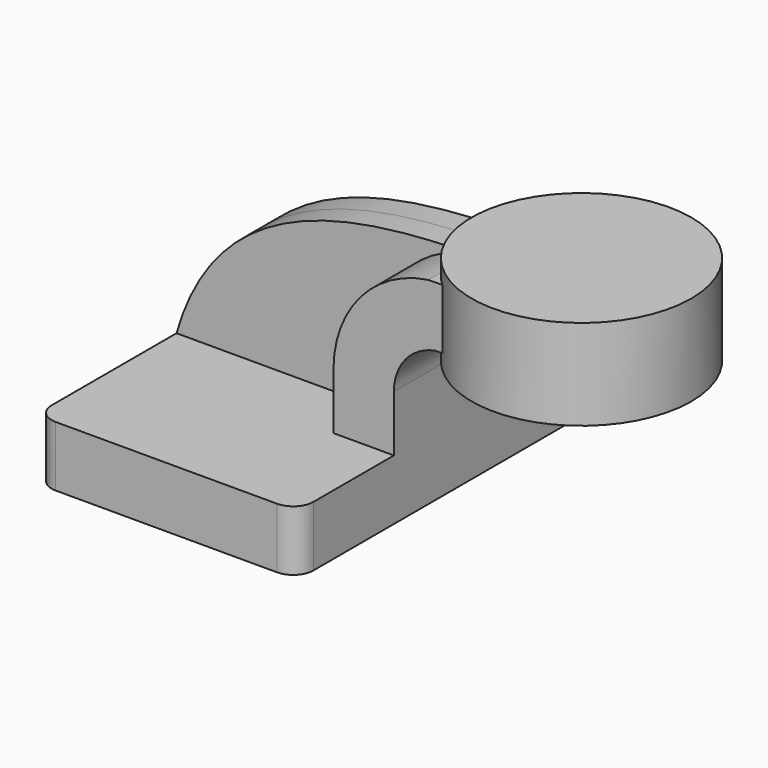
from build123d import *

# Parameters (mm, degrees)
F1_DEPTH = 63.5
F0_W     = 16.14231
F0_H     = 19.05
F2_DEPTH = 25.4
F3_DEPTH = 7.9375
F5_R     = 6.35


with BuildPart() as f1:
    # F0 (on Front) → F1 (new body, symmetric)
    with BuildSketch(Plane.XZ):
        Polygon((22.225, 9.525), (-41.275, 9.525), (-41.275, -9.525), (41.275, -9.525), (41.275, 9.525), align=None)
    extrude(amount=F1_DEPTH, both=True)

    # F0 (on Front) → F2 (join, symmetric)
    with BuildSketch(Plane.XZ):
        with BuildLine():
            Line((22.225, 27.245483), (22.225, 9.525))
            Line((22.225, 9.525), (41.275, 9.525))
            Line((41.275, 9.525), (41.275, 27.245483))
            ThreePointArc((41.275, 27.245483), (44.98148, 37.440715), (54.37015, 42.8752))
            Line((54.37015, 42.8752), (63.990081, 42.8752))
            Line((63.990081, 42.8752), (63.990081, 61.9252))
            add(Edge.make_bspline(
                [(52.118676, 61.806174), (56.173728, 61.882453), (60.147361, 61.905409), (63.990081, 61.9252)],
                knots=[105.880796, 105.880796, 105.880796, 105.880796, 117.586216, 117.586216, 117.586216, 117.586216], degree=3))
            ThreePointArc((52.118676, 61.806174), (30.735282, 50.093203), (22.225, 27.245483))
        make_face()
        with Locations((72.061236, 52.4002)):
            Rectangle(F0_W, F0_H)
    extrude(amount=F2_DEPTH, both=True)

    # F0 (on Front) → F3 (join, symmetric)
    with BuildSketch(Plane.XZ):
        with BuildLine():
            add(Edge.make_bspline(
                [(-41.275, 9.525), (-27.902543, 56.063321), (15.438907, 61.1162), (52.118676, 61.806174)],
                knots=[0, 0, 0, 0, 105.880796, 105.880796, 105.880796, 105.880796], degree=3))
            Line((-41.275, 9.525), (22.225, 9.525))
            Line((22.225, 9.525), (22.225, 27.245483))
            ThreePointArc((22.225, 27.245483), (30.735282, 50.093203), (52.118676, 61.806174))
        make_face()
    extrude(amount=F3_DEPTH, both=True)

    # F0 (on Front) → F4 (revolve)
    with BuildSketch(Plane.XZ):
        Polygon((80.132391, 66.675), (80.132391, 61.9252), (80.132391, 42.8752), (80.132391, 38.1), (114.790081, 38.1), (114.790081, 66.675), align=None)
    revolve(axis=Axis((80.132391, 0, 52.3875), (0, 0, 1)))

    # F5
    f5_edges = [f1.edges().sort_by_distance(p)[0] for p in [
        (41.275, 63.5, 0),
        (-41.275, 63.5, 0),
        (-41.275, -63.5, 0),
        (41.275, -63.5, 0),
    ]]
    fillet(f5_edges, radius=F5_R)


solid = f1.part
